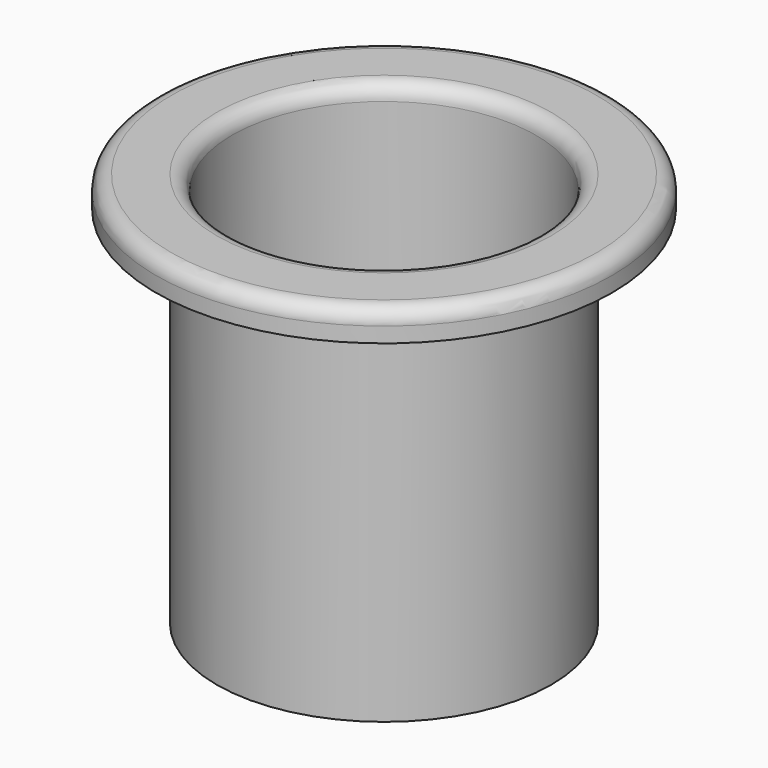
from build123d import *

# Parameters (mm, degrees)
F0_R     = 11
F0_R_2   = 10
F1_DEPTH = 24
F0_R_3   = 15
F2_DEPTH = 2
F3_R     = 1


with BuildPart() as f1:
    # F0 (on Top) → F1 (new body)
    with BuildSketch(Plane.XY):
        Circle(F0_R)
        Circle(F0_R_2, mode=Mode.SUBTRACT)
    extrude(amount=-F1_DEPTH)

    # F0 (on Top) → F2 (join)
    with BuildSketch(Plane.XY):
        Circle(F0_R_3)
        Circle(F0_R, mode=Mode.SUBTRACT)
        Circle(F0_R)
        Circle(F0_R_2, mode=Mode.SUBTRACT)
    extrude(amount=F2_DEPTH)

    # F3
    f3_edges = [f1.edges().sort_by_distance(p)[0] for p in [
        (-15, 0, 2),
        (-10, 0, 2),
    ]]
    fillet(f3_edges, radius=F3_R)


solid = f1.part
